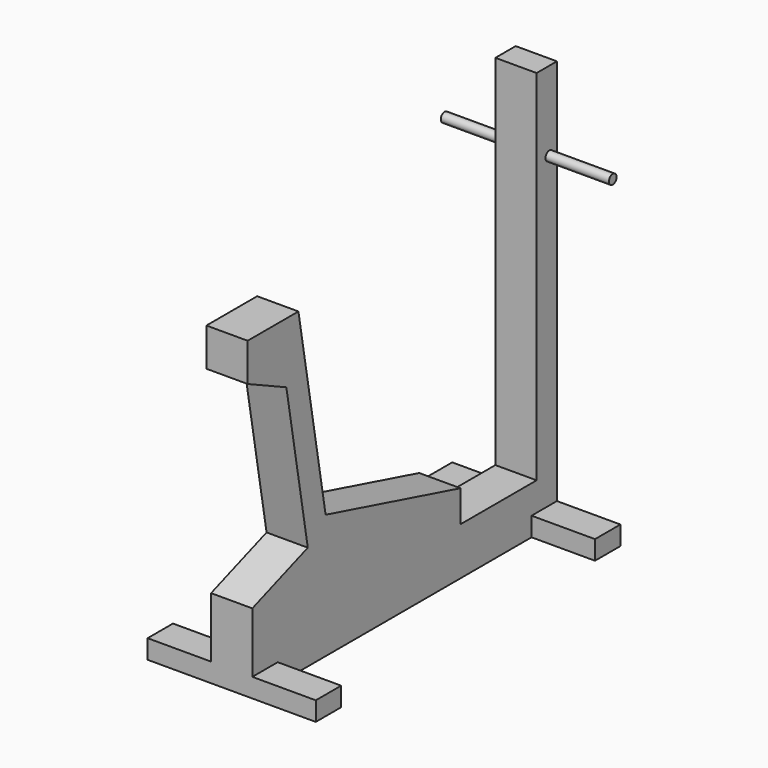
from build123d import *

# Parameters (mm, degrees)
F1_DEPTH = 65
F2_W     = 100
F2_H     = 60
F3_DEPTH = 265
F4_R     = 15
F5_DEPTH = 265


with BuildPart() as f1:
    # F0 (on Right) → F1 (new body, symmetric)
    with BuildSketch(Plane.YZ):
        Polygon((0, 250), (0, 0), (1200, 0), (1200, 1280), (1120, 1280), (1120, 150), (820, 150), (820, 250), (288.740796, 392.350475), (181.595789, 1000), (-18.404211, 1000), (-18.404211, 880), (134.056628, 808.906343), (218.578984, 329.556244), align=None)
    extrude(amount=F1_DEPTH, both=True)

    # F2 (on Right) → F3 (join, symmetric)
    with BuildSketch(Plane.YZ):
        with Locations((50, 30)):
            Rectangle(F2_W, F2_H)
        with Locations((1150, 30)):
            Rectangle(F2_W, F2_H)
    extrude(amount=F3_DEPTH, both=True)

    # F4 (on Right) → F5 (join, symmetric)
    with BuildSketch(Plane.YZ):
        with Locations((1170, 1030)):
            Circle(F4_R)
    extrude(amount=F5_DEPTH, both=True)


solid = f1.part
